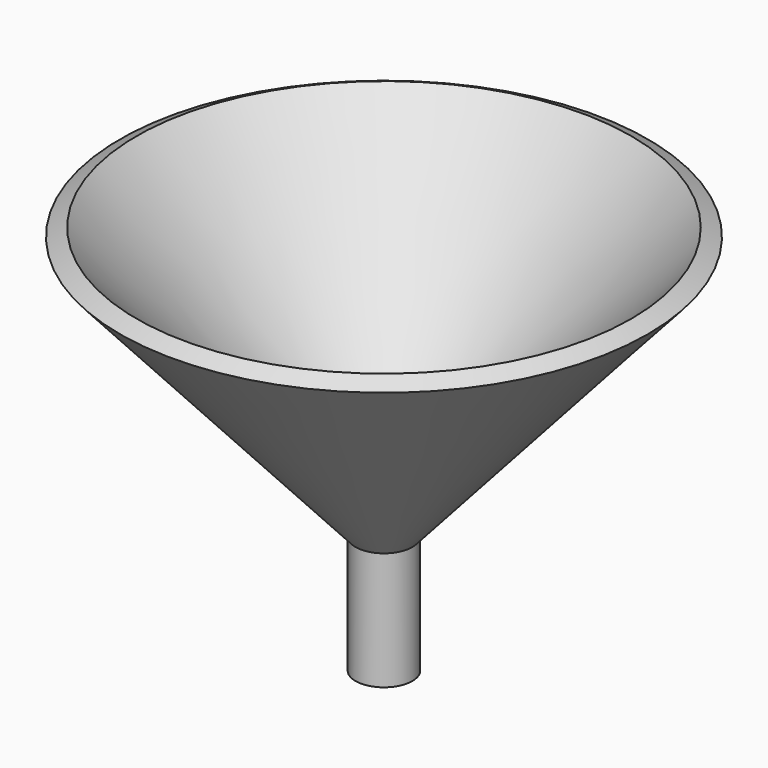
from build123d import *

# Parameters (mm, degrees)
F2_R     = 5.141611
F3_DEPTH = 50.8


with BuildPart() as f1:
    # F0 (on Front) → F1 (revolve)
    with BuildSketch(Plane.XZ):
        Polygon((0, 0), (50.729396, 56.859198), (47.1658, 58.623079), (-6.110549, 1.014026), (-6.110549, -25.4), (0, -25.4), align=None)
    revolve(axis=Axis((-6.110549, 0, -12.192987), (0, 0, 1)))

    # F2 (on face) → F3 (cut)
    with BuildSketch(Plane(origin=(0, 0, -25.4), x_dir=(1, 0, 0), z_dir=(0, 0, -1))):
        with Locations((-6.110549, 0)):
            Circle(F2_R)
    extrude(amount=-F3_DEPTH, mode=Mode.SUBTRACT)


solid = f1.part
